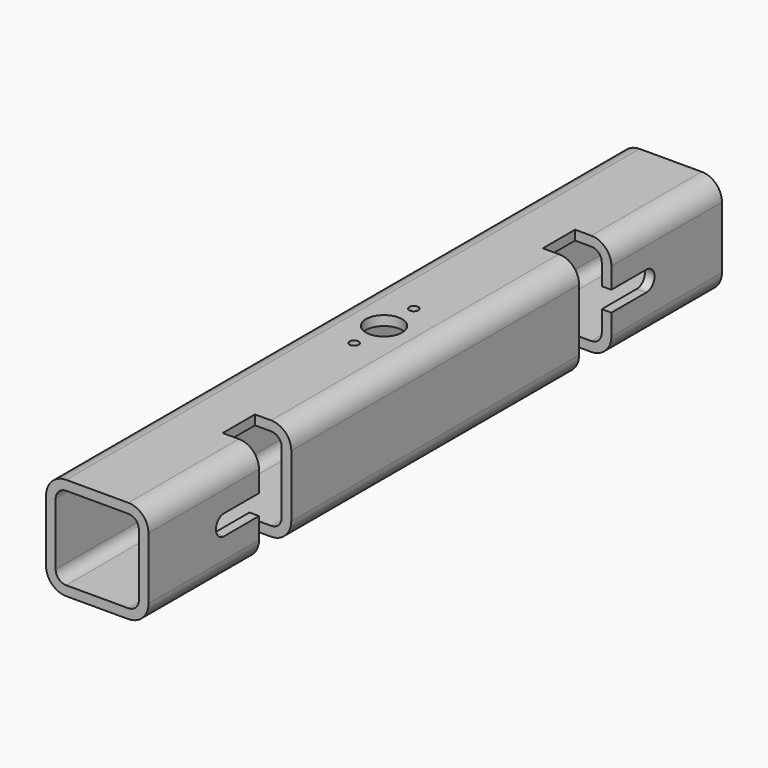
from build123d import *

# Parameters (mm, degrees)
PAD_DEPTH       = 177.8
SKETCH005_W     = 25
SKETCH005_H     = 20
POCKET_DEPTH    = 50.801
POCKET001_DEPTH = 4.7625
SKETCH012_R     = 9
SKETCH012_R_2   = 2.25
POCKET006_DEPTH = 5


with BuildPart() as part:
    # Sketch → Pad (new body, symmetric)
    with BuildSketch(Plane.XZ):
        with BuildLine():
            Line((10, 0), (40.8, 0))
            ThreePointArc((40.8, 0), (47.871068, 2.928932), (50.8, 10))
            Line((50.8, 10), (50.8, 40.8))
            ThreePointArc((50.8, 40.8), (47.871068, 47.871068), (40.8, 50.8))
            Line((40.8, 50.8), (10, 50.8))
            ThreePointArc((10, 50.8), (2.928932, 47.871068), (0, 40.8))
            Line((0, 40.8), (0, 10))
            ThreePointArc((0, 10), (2.928932, 2.928932), (10, 0))
        make_face()
        with BuildLine():
            Line((10, 46.0375), (40.8, 46.0375))
            ThreePointArc((46.0375, 40.8), (44.503472, 44.503472), (40.8, 46.0375))
            Line((46.0375, 40.8), (46.0375, 10))
            ThreePointArc((40.8, 4.7625), (44.503472, 6.296528), (46.0375, 10))
            Line((40.8, 4.7625), (10, 4.7625))
            ThreePointArc((4.7625, 10), (6.296528, 6.296528), (10, 4.7625))
            Line((4.7625, 10), (4.7625, 40.8))
            ThreePointArc((10, 46.0375), (6.296528, 44.503472), (4.7625, 40.8))
        make_face(mode=Mode.SUBTRACT)
    extrude(amount=PAD_DEPTH, both=True)

    # Sketch005 → Pocket (cut, through all)
    with BuildSketch(Plane.XY.offset(50.8)):
        with Locations((45.3, 99.25)):
            Rectangle(SKETCH005_W, SKETCH005_H)
        with Locations((45.3, -99.25)):
            Rectangle(SKETCH005_W, SKETCH005_H)
    extrude(amount=-POCKET_DEPTH, mode=Mode.SUBTRACT)

    # Sketch006 → Pocket001 (cut)
    with BuildSketch(Plane.YZ.offset(50.8)):
        with BuildLine():
            ThreePointArc((-131, 30.4), (-136, 25.4), (-131, 20.4))
            Line((-131, 20.4), (-95, 20.4))
            ThreePointArc((-95, 20.4), (-90, 25.4), (-95, 30.4))
            Line((-131, 30.4), (-95, 30.4))
        make_face()
        with BuildLine():
            ThreePointArc((95, 30.4), (90, 25.4), (95, 20.4))
            Line((95, 20.4), (131, 20.4))
            ThreePointArc((131, 20.4), (136, 25.4), (131, 30.4))
            Line((95, 30.4), (131, 30.4))
        make_face()
    extrude(amount=-POCKET001_DEPTH, mode=Mode.SUBTRACT)

    # Sketch012 → Pocket006 (cut)
    with BuildSketch(Plane.XY.offset(50.8)):
        with Locations((25.4, 0)):
            Circle(SKETCH012_R)
        with Locations((25.4, 18.5)):
            Circle(SKETCH012_R_2)
        with Locations((25.4, -18.5)):
            Circle(SKETCH012_R_2)
    extrude(amount=-POCKET006_DEPTH, mode=Mode.SUBTRACT)


solid = part.part
